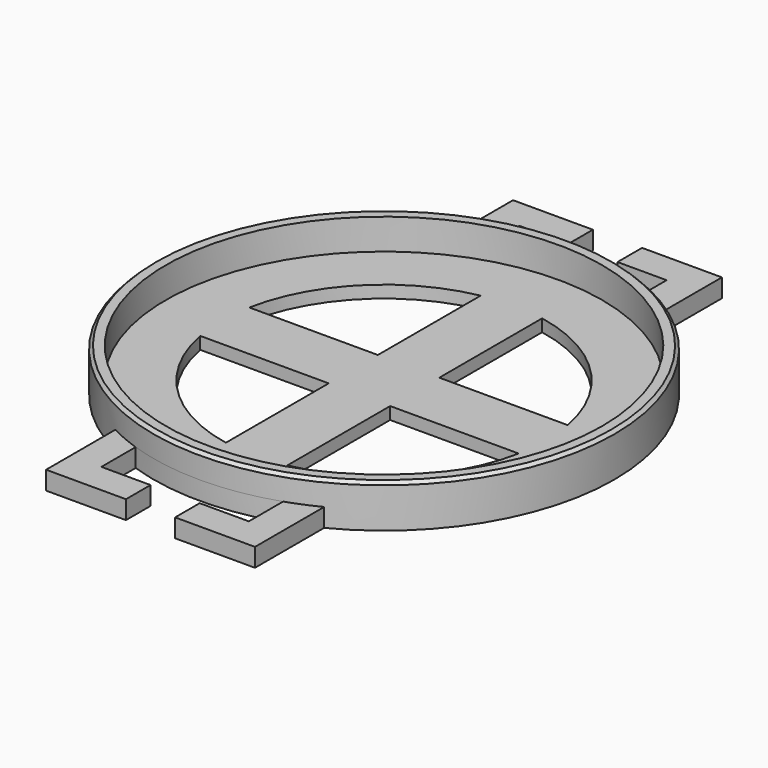
from build123d import *

# Parameters (mm, degrees)
F0_R      = 37.5
F1_DEPTH  = 7
F2_R      = 35.5
F3_DEPTH  = 5
F4_SIZE   = 0.5
F6_DEPTH  = 3
F7_W      = 4
F7_H      = 5
F8_DEPTH  = 3
F9_W      = 4
F9_H      = 5
F10_DEPTH = 3
F12_DEPTH = 2


with BuildPart() as f1:
    # F0 (on Top) → F1 (new body)
    with BuildSketch(Plane.XY):
        Circle(F0_R)
    extrude(amount=F1_DEPTH)

    # F2 (on face) → F3 (cut)
    with BuildSketch(Plane.XY.offset(7)):
        Circle(F2_R)
    extrude(amount=-F3_DEPTH, mode=Mode.SUBTRACT)

    # F4
    f4_edges = [f1.edges().sort_by_distance(p)[0] for p in [
        (-37.5, 0, 7),
    ]]
    chamfer(f4_edges, length=F4_SIZE)

    # F5 (on face) → F6 (join)
    with BuildSketch(Plane(origin=(0, 0, 0), x_dir=(1, 0, 0), z_dir=(0, 0, -1))):
        with BuildLine():
            ThreePointArc((-17, 33.4252898267), (-8.740756017, 36.467097283), (0, 37.5))
            Line((0, 37.5), (0, 47.5))
            Line((0, 47.5), (-17, 47.5))
            Line((-17, 47.5), (-17, 33.4252898267))
        make_face()
        with BuildLine():
            Line((0, 47.5), (0, 37.5))
            ThreePointArc((0, 37.5), (8.740756017, 36.467097283), (17, 33.4252898267))
            Line((17, 33.4252898267), (17, 47.5))
            Line((17, 47.5), (0, 47.5))
        make_face()
        with BuildLine():
            Line((0, -47.5), (0, -37.5))
            ThreePointArc((0, -37.5), (-8.740756017, -36.467097283), (-17, -33.4252898267))
            Line((-17, -33.4252898267), (-17, -47.5))
            Line((-17, -47.5), (0, -47.5))
        make_face()
        with BuildLine():
            ThreePointArc((17, -33.4252898267), (8.740756017, -36.467097283), (0, -37.5))
            Line((0, -37.5), (0, -47.5))
            Line((0, -47.5), (17, -47.5))
            Line((17, -47.5), (17, -33.4252898267))
        make_face()
    extrude(amount=-F6_DEPTH)

    # F7 (on face) → F8 (cut, through all)
    with BuildSketch(Plane.XY.offset(3)):
        with BuildLine():
            Line((4, 42.5), (0, 42.5))
            Line((0, 42.5), (-4, 42.5))
            Line((-4, 42.5), (-12, 42.5))
            Line((-12, 42.5), (-12, 35.528157847))
            ThreePointArc((-12, 35.528157847), (0, 37.5), (12, 35.528157847))
            Line((12, 35.528157847), (12, 42.5))
            Line((12, 42.5), (4, 42.5))
        make_face()
        with Locations((2, 45)):
            Rectangle(F7_W, F7_H)
        with Locations((-2, 45)):
            Rectangle(F7_W, F7_H)
    extrude(amount=-F8_DEPTH, mode=Mode.SUBTRACT)

    # F9 (on face) → F10 (cut, through all)
    with BuildSketch(Plane.XY.offset(3)):
        with BuildLine():
            Line((-4, -42.5), (0, -42.5))
            Line((0, -42.5), (4, -42.5))
            Line((4, -42.5), (12, -42.5))
            Line((12, -42.5), (12, -35.528157847))
            ThreePointArc((12, -35.528157847), (0, -37.5), (-12, -35.528157847))
            Line((-12, -35.528157847), (-12, -42.5))
            Line((-12, -42.5), (-4, -42.5))
        make_face()
        with Locations((2, -45)):
            Rectangle(F9_W, F9_H)
        with Locations((-2, -45)):
            Rectangle(F9_W, F9_H)
    extrude(amount=-F10_DEPTH, mode=Mode.SUBTRACT)

    # F11 (on face) → F12 (cut, through all)
    with BuildSketch(Plane.XY.offset(2)):
        with BuildLine():
            Line((5, 5), (25.9183331907, 5))
            ThreePointArc((25.9183331907, 5), (18.6649403345, 18.6649403345), (5, 25.9183331907))
            Line((5, 25.9183331907), (5, 5))
        make_face()
        with BuildLine():
            Line((-5, 5), (-5, 25.9183331907))
            ThreePointArc((-5, 25.9183331907), (-18.6649403345, 18.6649403345), (-25.9183331907, 5))
            Line((-25.9183331907, 5), (-5, 5))
        make_face()
        with BuildLine():
            ThreePointArc((5, -25.9183331907), (18.6649403345, -18.6649403345), (25.9183331907, -5))
            Line((25.9183331907, -5), (5, -5))
            Line((5, -5), (5, -25.9183331907))
        make_face()
        with BuildLine():
            ThreePointArc((-25.9183331907, -5), (-18.6649403345, -18.6649403345), (-5, -25.9183331907))
            Line((-5, -25.9183331907), (-5, -5))
            Line((-5, -5), (-25.9183331907, -5))
        make_face()
    extrude(amount=-F12_DEPTH, mode=Mode.SUBTRACT)


solid = f1.part
